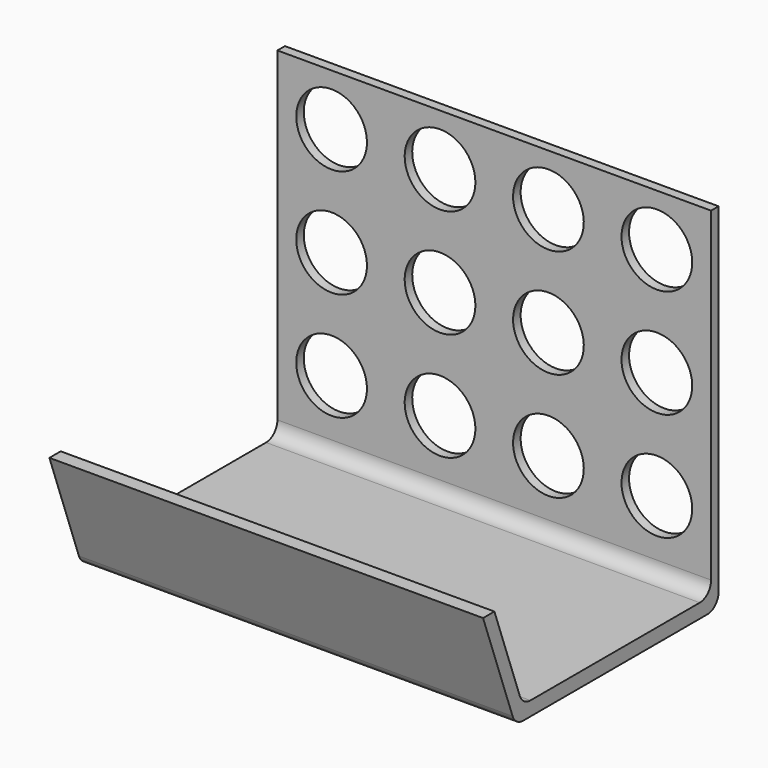
from build123d import *

# Parameters (mm, degrees)
PAD_DEPTH    = 92
SKETCH001_R  = 7.5
POCKET_DEPTH = 2


with BuildPart() as part:
    # Sketch → Pad (new body)
    with BuildSketch(Plane.YZ):
        with BuildLine():
            Line((0, 75), (0, 3))
            ThreePointArc((-3, 0), (-0.87868, 0.87868), (0, 3))
            Line((-3, 0), (-51.807467, 0))
            ThreePointArc((-54.626545, 1.97394), (-53.528196, 0.542544), (-51.807467, 0))
            Line((-54.626545, 1.97394), (-62.458589, 23.492317))
            Line((-62.458589, 23.492317), (-59.458589, 23.492317))
            Line((-52.718455, 4.97394), (-59.458589, 23.492317))
            ThreePointArc((-52.718455, 4.97394), (-51.620107, 3.542544), (-49.899377, 3))
            Line((-5, 3), (-49.899377, 3))
            ThreePointArc((-5, 3), (-2.87868, 3.87868), (-2, 6))
            Line((-2, 75), (-2, 6))
            Line((0, 75), (-2, 75))
        make_face()
    extrude(amount=PAD_DEPTH)

    # Sketch001 (on Face12 of Pad) → Pocket (cut)
    with BuildSketch(Plane(origin=(0, -2, 0), x_dir=(0, 0, -1), z_dir=(0, -1, 0))):
        with Locations((-64, 11.5)):
            Circle(SKETCH001_R)
        with Locations((-41, 11.5)):
            Circle(SKETCH001_R)
        with Locations((-18, 11.5)):
            Circle(SKETCH001_R)
        with Locations((-64, 34.5)):
            Circle(SKETCH001_R)
        with Locations((-41, 34.5)):
            Circle(SKETCH001_R)
        with Locations((-18, 34.5)):
            Circle(SKETCH001_R)
        with Locations((-64, 57.5)):
            Circle(SKETCH001_R)
        with Locations((-41, 57.5)):
            Circle(SKETCH001_R)
        with Locations((-18, 57.5)):
            Circle(SKETCH001_R)
        with Locations((-64, 80.5)):
            Circle(SKETCH001_R)
        with Locations((-41, 80.5)):
            Circle(SKETCH001_R)
        with Locations((-18, 80.5)):
            Circle(SKETCH001_R)
    extrude(amount=-POCKET_DEPTH, mode=Mode.SUBTRACT)


solid = part.part
